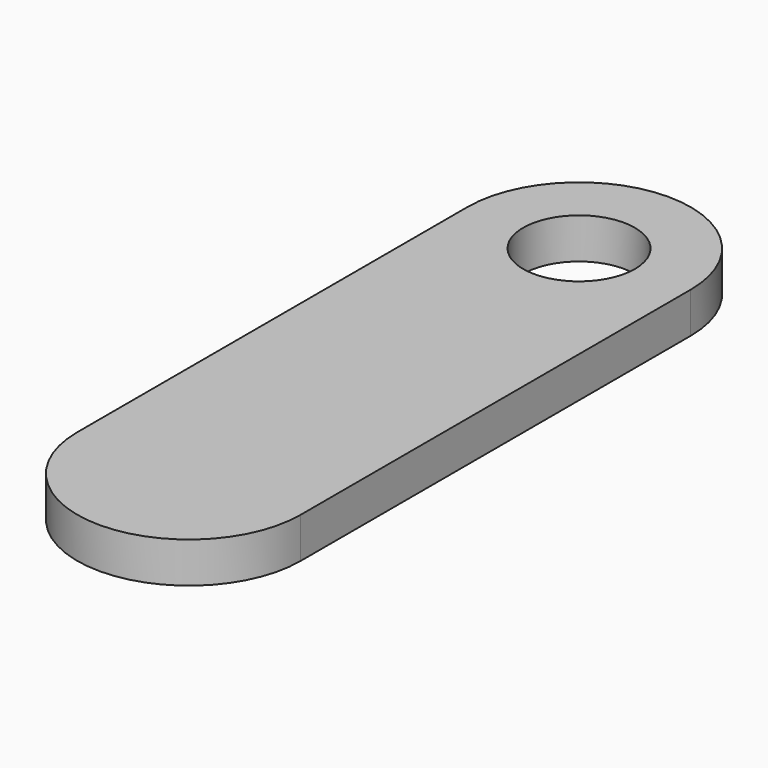
from build123d import *

# Parameters (mm, degrees)
F0_R     = 2.75
F1_DEPTH = 2


with BuildPart() as f1:
    # F0 (on Top) → F1 (new body)
    with BuildSketch(Plane.XY):
        with BuildLine():
            Line((0, 0), (0, 24))
            ThreePointArc((0, 24), (-5.5, 29.5), (-11, 24))
            Line((-11, 24), (-11, 0))
            ThreePointArc((-11, 0), (-5.5, -5.5), (0, 0))
        make_face()
        with Locations((-5.5, 24)):
            Circle(F0_R, mode=Mode.SUBTRACT)
    extrude(amount=F1_DEPTH)


solid = f1.part
